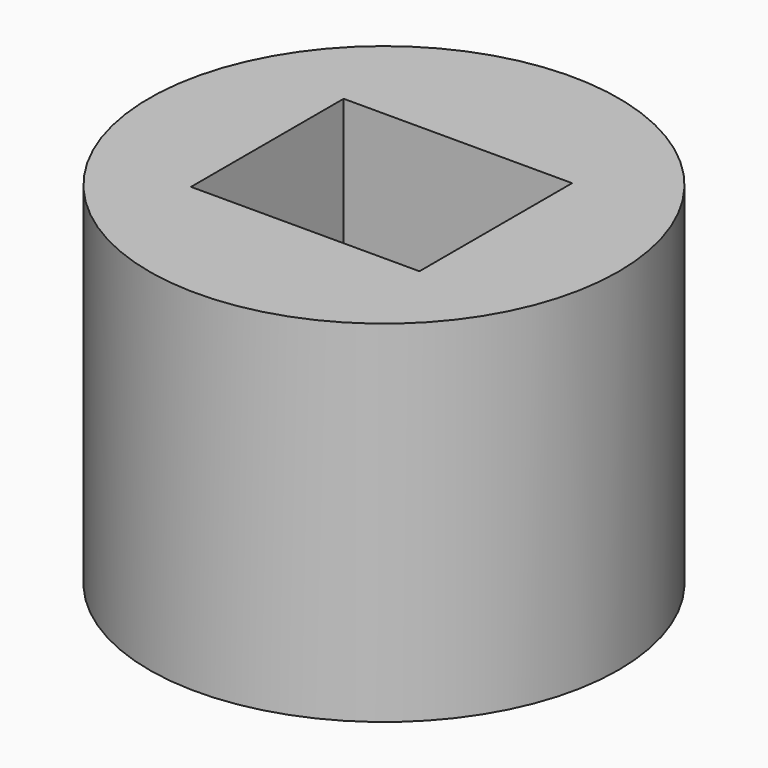
from build123d import *

# Parameters (mm, degrees)
F0_R     = 16.998961
F1_DEPTH = 25.4
F2_W     = 16.54708
F2_H     = 13.821679
F3_DEPTH = 25.401


with BuildPart() as f1:
    # F0 (on Top) → F1 (new body)
    with BuildSketch(Plane.XY):
        Circle(F0_R)
    extrude(amount=-F1_DEPTH)

    # F2 (on face) → F3 (cut, through all)
    with BuildSketch(Plane.XY):
        with Locations((-0.097336, -0.097335)):
            Rectangle(F2_W, F2_H)
    extrude(amount=-F3_DEPTH, mode=Mode.SUBTRACT)


solid = f1.part
